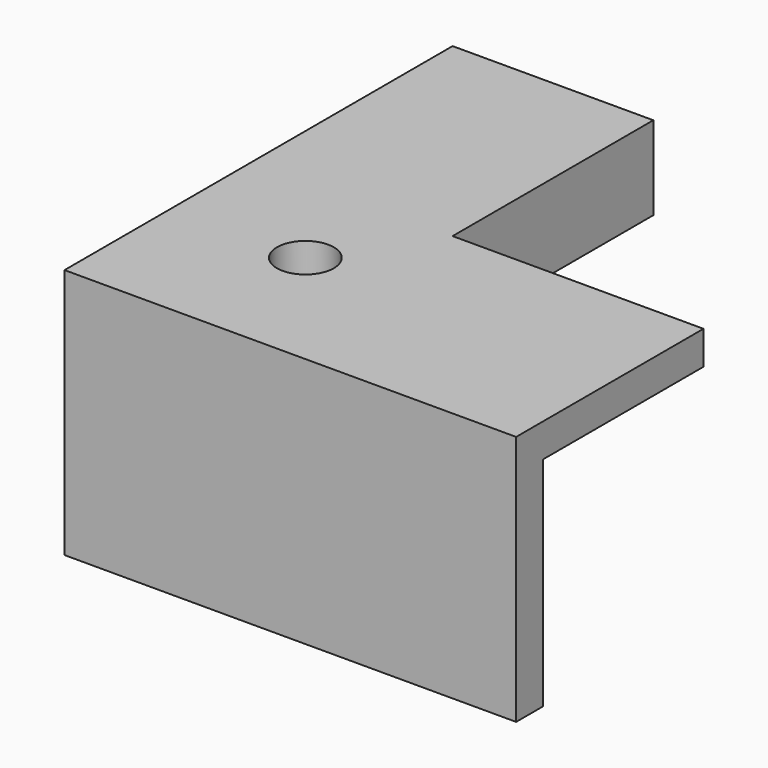
from build123d import *

# Parameters (mm, degrees)
PAD_DEPTH       = 2
PAD001_DEPTH    = 13
SKETCH002_W     = 10
SKETCH002_H     = 15
PAD002_DEPTH    = 3
SKETCH003_R     = 1.7
POCKET_DEPTH    = 27.001
SKETCH004_R     = 1.7
POCKET001_DEPTH = 15.001


with BuildPart() as part:
    # Sketch → Pad (new body)
    with BuildSketch(Plane.XY):
        Polygon((-12, 15), (-12, -14), (15, -14), (15, 0), (0, 0), (0, 15), align=None)
    extrude(amount=PAD_DEPTH)

    # Sketch001 → Pad001 (new body)
    with BuildSketch(Plane(origin=(0, 0, 0), x_dir=(1, 0, 0), z_dir=(0, 0, -1))):
        Polygon((-12, -15), (-12, 14), (15, 14), (15, 12), (-10, 12), (-10, -15), align=None)
    extrude(amount=PAD001_DEPTH)

    # Sketch002 → Pad002 (new body)
    with BuildSketch(Plane(origin=(0, 0, 0), x_dir=(1, 0, 0), z_dir=(0, 0, -1))):
        with Locations((-5, -7.5)):
            Rectangle(SKETCH002_W, SKETCH002_H)
    extrude(amount=PAD002_DEPTH)

    # Sketch003 → Pocket (cut, through all)
    with BuildSketch(Plane(origin=(-12, 0, 0), x_dir=(0, -1, 0), z_dir=(-1, 0, 0))):
        with Locations((-7.5, -8)):
            Circle(SKETCH003_R)
        with Locations((6, -8)):
            Circle(SKETCH003_R)
    extrude(amount=-POCKET_DEPTH, mode=Mode.SUBTRACT)

    # Sketch004 → Pocket001 (cut, through all)
    with BuildSketch(Plane.XY.offset(2)):
        with Locations((-4, -6)):
            Circle(SKETCH004_R)
    extrude(amount=-POCKET001_DEPTH, mode=Mode.SUBTRACT)


solid = part.part
